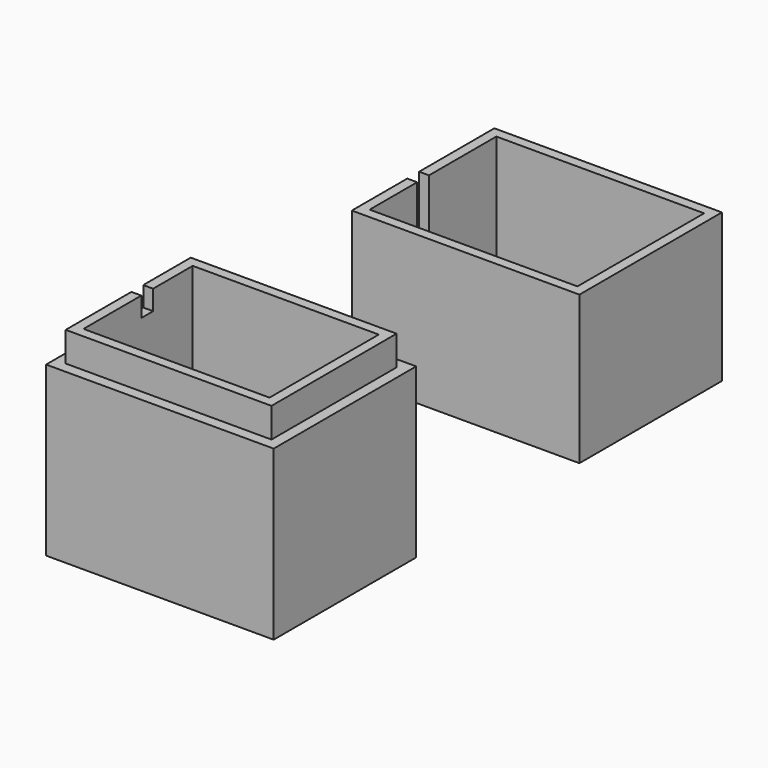
from build123d import *

# Parameters (mm, degrees)
F0_W        = 21
F0_H        = 16
F1_DEPTH    = 1.5
F0_W_2      = 23
F0_H_2      = 18
F2_DEPTH    = 15
F3_W        = 1
F3_H        = 1.5
F4_DEPTH    = 5
F5_W        = 18.8
F5_H        = 13.8
F6_DEPTH    = 1
F7_DEPTH    = 20
F8_W        = 8.6
F8_H        = 4.5
F9_DEPTH    = 4
F7_FACE_W   = 23
F7_FACE_H   = 18
F7_FACE_W_2 = 20.8
F7_FACE_H_2 = 15.8
F10_DEPTH   = 16
F11_W       = 1
F11_H       = 1.5
F12_DEPTH   = 2


with BuildPart() as f1:
    # F0 (on Top) → F1 (new body)
    with BuildSketch(Plane.XY):
        Rectangle(F0_W, F0_H)
    extrude(amount=F1_DEPTH)

    # F0 (on Top) → F2 (join)
    with BuildSketch(Plane.XY):
        Rectangle(F0_W_2, F0_H_2)
        Rectangle(F0_W, F0_H, mode=Mode.SUBTRACT)
    extrude(amount=F2_DEPTH)

    # F3 (on face) → F4 (cut)
    with BuildSketch(Plane.XY.offset(15)):
        with Locations((-11, -1.25)):
            Rectangle(F3_W, F3_H)
    extrude(amount=-F4_DEPTH, mode=Mode.SUBTRACT)


with BuildPart() as f6:
    # F5 (on Top) → F6 (new body)
    with BuildSketch(Plane.XY):
        Polygon((-11.5, -47.624052), (11.5, -47.624052), (11.5, -29.624052), (-11.5, -29.624052), (-11.5, -32.324052), (-11.5, -45.924052), align=None)
        Polygon((10.4, -46.524052), (-10.4, -46.524052), (-10.4, -45.924052), (-10.4, -32.324052), (-10.4, -30.724052), (10.4, -30.724052), align=None, mode=Mode.SUBTRACT)
        Polygon((-10.4, -45.924052), (-10.4, -46.524052), (10.4, -46.524052), (10.4, -30.724052), (-10.4, -30.724052), (-10.4, -32.324052), align=None)
        with Locations((0, -38.624052)):
            Rectangle(F5_W, F5_H, mode=Mode.SUBTRACT)
        with Locations((0, -38.624052)):
            Rectangle(F5_W, F5_H)
    extrude(amount=F6_DEPTH)

    # F5 (on Top) → F7 (join)
    with BuildSketch(Plane.XY):
        Polygon((-10.4, -45.924052), (-10.4, -46.524052), (10.4, -46.524052), (10.4, -30.724052), (-10.4, -30.724052), (-10.4, -32.324052), align=None)
        with Locations((0, -38.624052)):
            Rectangle(F5_W, F5_H, mode=Mode.SUBTRACT)
    extrude(amount=F7_DEPTH)

    # F8 (on face) → F9 (cut)
    with BuildSketch(Plane.XY.offset(1)):
        with Locations((1.2, -35.574052)):
            Rectangle(F8_W, F8_H)
    extrude(amount=-F9_DEPTH, mode=Mode.SUBTRACT)

    # F7_face (on face) → F10 (join)
    with BuildSketch(Plane(origin=(0, -38.624052, 1), x_dir=(1, 0, 0), z_dir=(0, 0, 1))):
        Rectangle(F7_FACE_W, F7_FACE_H)
        Rectangle(F7_FACE_W_2, F7_FACE_H_2, mode=Mode.SUBTRACT)
    extrude(amount=F10_DEPTH)

    # F11 (on face) → F12 (cut)
    with BuildSketch(Plane.XY.offset(20)):
        with Locations((-9.9, -37.474052)):
            Rectangle(F11_W, F11_H)
    extrude(amount=-F12_DEPTH, mode=Mode.SUBTRACT)


solid = Compound([f1.part, f6.part])
